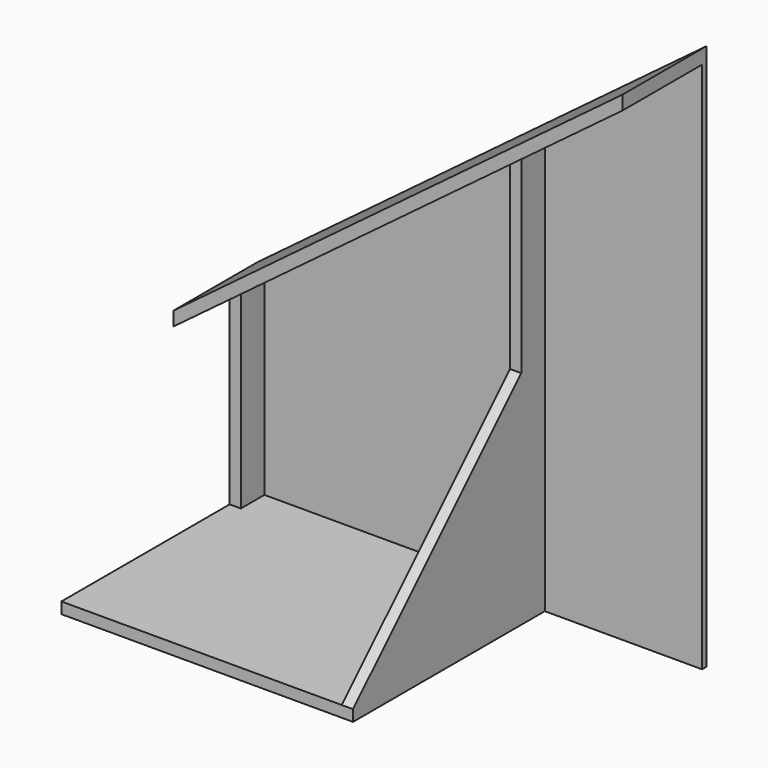
from build123d import *

# Parameters (mm, degrees)
F1_DEPTH = 0.8
F2_DEPTH = 35
F3_DEPTH = 15
F4_DEPTH = 5
F5_W     = 30
F5_H     = 1.6
F6_DEPTH = 1.6


with BuildPart() as f1:
    # F0 (on Front) → F1 (new body)
    with BuildSketch(Plane.XZ):
        Polygon((64.041778, -30), (64.041778, 45.94555), (41.6, 29.144735), (41.6, -30), align=None)
        Polygon((1.6, -0.800871), (0, -1.998695), (0, -28.4), (1.6, -28.4), align=None)
        Polygon((1.6, -28.4), (0, -28.4), (0, -30), (40, -30), (40, -28.4), align=None)
        Polygon((64.041778, 47.944246), (0, 0), (0, -1.998695), (1.6, -0.800871), (40, 27.94691), (41.6, 29.144735), (64.041778, 45.94555), align=None)
        Polygon((41.6, -30), (41.6, 29.144735), (40, 27.94691), (40, -28.4), (40, -30), align=None)
        Polygon((40, 27.94691), (1.6, -0.800871), (1.6, -28.4), (40, -28.4), align=None)
    extrude(amount=F1_DEPTH)

    # F0 (on Front) → F2 (join)
    with BuildSketch(Plane.XZ):
        Polygon((1.6, -28.4), (0, -28.4), (0, -30), (40, -30), (40, -28.4), align=None)
    extrude(amount=F2_DEPTH)

    # F0 (on Front) → F3 (join)
    with BuildSketch(Plane.XZ):
        Polygon((64.041778, 47.944246), (0, 0), (0, -1.998695), (1.6, -0.800871), (40, 27.94691), (41.6, 29.144735), (64.041778, 45.94555), align=None)
    extrude(amount=F3_DEPTH)

    # F0 (on Front) → F4 (join)
    with BuildSketch(Plane.XZ):
        Polygon((41.6, -30), (41.6, 29.144735), (40, 27.94691), (40, -28.4), (40, -30), align=None)
        Polygon((1.6, -0.800871), (0, -1.998695), (0, -28.4), (1.6, -28.4), align=None)
    extrude(amount=F4_DEPTH)

    # F5 (on face) → F6 (join)
    with BuildSketch(Plane.YZ.offset(40)):
        with Locations((-20, -29.2)):
            Rectangle(F5_W, F5_H)
        Polygon((-5, 1.6), (-35, -28.4), (-5, -28.4), align=None)
    extrude(amount=F6_DEPTH)


solid = f1.part
